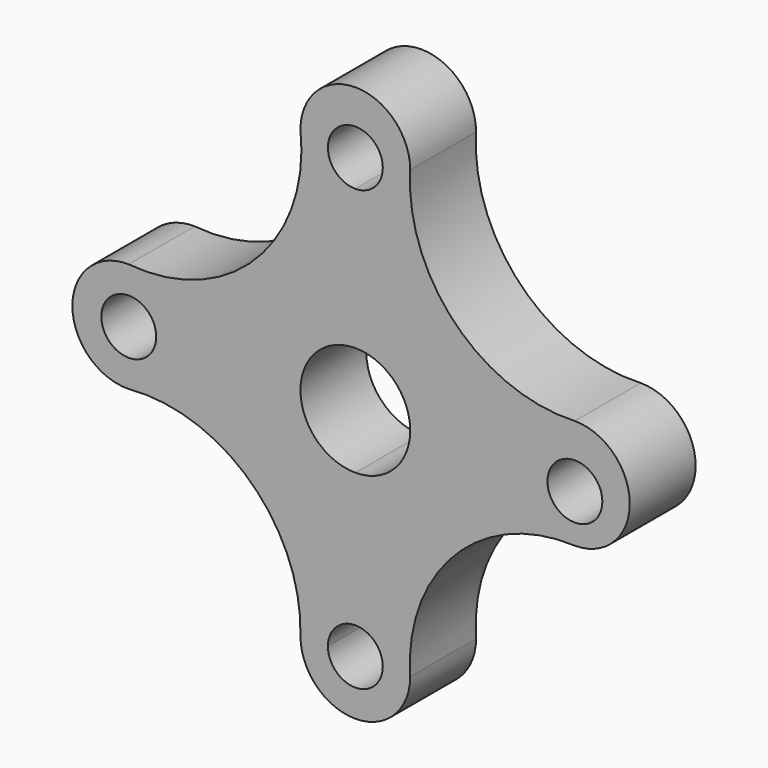
from build123d import *

# Parameters (mm, degrees)
F0_R     = 6.35
F1_DEPTH = 19.05
F2_DEPTH = 19.05


with BuildPart() as f1:
    # F0 (on Front) → F1 (new body)
    with BuildSketch(Plane.XZ):
        with BuildLine():
            ThreePointArc((-6.35, -50.125599), (-4.490128, -45.635471), (0, -43.775599))
            ThreePointArc((0, -43.775599), (4.490128, -45.635471), (6.35, -50.125599))
            Line((6.35, -50.125599), (12.7, -50.125599))
            ThreePointArc((12.7, -50.125599), (22.977514, -22.034586), (50.8, -11.050889))
            ThreePointArc((50.8, -11.050889), (63.5, 1.649111), (50.8, 14.349111))
            ThreePointArc((50.8, 14.349111), (23.096277, 25.233102), (12.7, 53.123512))
            ThreePointArc((12.7, 53.123512), (0, 65.823512), (-12.7, 53.123512))
            ThreePointArc((-12.7, 53.123512), (-22.939694, 23.449172), (-52.42982, 12.690442))
            ThreePointArc((-52.42982, 12.690442), (-65.478195, -0.004779), (-52.42982, -12.7))
            ThreePointArc((-52.42982, -12.7), (-24.161191, -22.49168), (-12.7, -50.125599))
            Line((-12.7, -50.125599), (-6.35, -50.125599))
        make_face()
        with Locations((-52.42982, 0)):
            Circle(F0_R, mode=Mode.SUBTRACT)
        with BuildLine():
            ThreePointArc((0, -12.7), (-12.7, 0), (0, 12.7))
            ThreePointArc((0, 12.7), (8.980256, 8.980256), (12.7, 0))
            ThreePointArc((12.7, 0), (8.980256, -8.980256), (0, -12.7))
        make_face(mode=Mode.SUBTRACT)
        with Locations((50.8, 0)):
            Circle(F0_R, mode=Mode.SUBTRACT)
        with BuildLine():
            ThreePointArc((6.35, 51.474401), (4.490128, 46.984273), (0, 45.124401))
            ThreePointArc((0, 45.124401), (-4.490128, 55.964529), (6.35, 51.474401))
        make_face(mode=Mode.SUBTRACT)
        with BuildLine():
            Line((12.7, -50.125599), (6.35, -50.125599))
            ThreePointArc((6.35, -50.125599), (0, -56.475599), (-6.35, -50.125599))
            Line((-6.35, -50.125599), (-12.7, -50.125599))
            ThreePointArc((-12.7, -50.125599), (0, -62.825599), (12.7, -50.125599))
        make_face()
    extrude(amount=F1_DEPTH)

    # F0 (on Front) → F2 (join)
    with BuildSketch(Plane.XZ):
        with BuildLine():
            ThreePointArc((-6.35, -50.125599), (-4.490128, -45.635471), (0, -43.775599))
            ThreePointArc((0, -43.775599), (4.490128, -45.635471), (6.35, -50.125599))
            Line((6.35, -50.125599), (12.7, -50.125599))
            ThreePointArc((12.7, -50.125599), (22.977514, -22.034586), (50.8, -11.050889))
            ThreePointArc((50.8, -11.050889), (63.5, 1.649111), (50.8, 14.349111))
            ThreePointArc((50.8, 14.349111), (23.096277, 25.233102), (12.7, 53.123512))
            ThreePointArc((12.7, 53.123512), (0, 65.823512), (-12.7, 53.123512))
            ThreePointArc((-12.7, 53.123512), (-22.939694, 23.449172), (-52.42982, 12.690442))
            ThreePointArc((-52.42982, 12.690442), (-65.478195, -0.004779), (-52.42982, -12.7))
            ThreePointArc((-52.42982, -12.7), (-24.161191, -22.49168), (-12.7, -50.125599))
            Line((-12.7, -50.125599), (-6.35, -50.125599))
        make_face()
        with Locations((-52.42982, 0)):
            Circle(F0_R, mode=Mode.SUBTRACT)
        with BuildLine():
            ThreePointArc((0, -12.7), (-12.7, 0), (0, 12.7))
            ThreePointArc((0, 12.7), (8.980256, 8.980256), (12.7, 0))
            ThreePointArc((12.7, 0), (8.980256, -8.980256), (0, -12.7))
        make_face(mode=Mode.SUBTRACT)
        with Locations((50.8, 0)):
            Circle(F0_R, mode=Mode.SUBTRACT)
        with BuildLine():
            ThreePointArc((6.35, 51.474401), (4.490128, 46.984273), (0, 45.124401))
            ThreePointArc((0, 45.124401), (-4.490128, 55.964529), (6.35, 51.474401))
        make_face(mode=Mode.SUBTRACT)
        with BuildLine():
            Line((12.7, -50.125599), (6.35, -50.125599))
            ThreePointArc((6.35, -50.125599), (0, -56.475599), (-6.35, -50.125599))
            Line((-6.35, -50.125599), (-12.7, -50.125599))
            ThreePointArc((-12.7, -50.125599), (0, -62.825599), (12.7, -50.125599))
        make_face()
    extrude(amount=F2_DEPTH)


solid = f1.part
